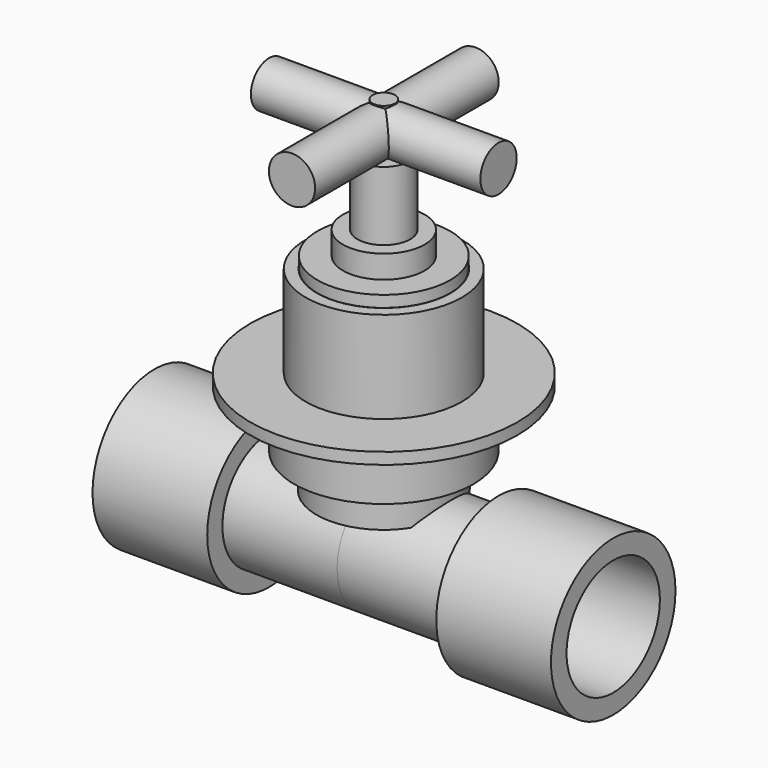
from build123d import *

# Parameters (mm, degrees)
F0_R           = 29.5829734146
F1_DEPTH       = 2.54
F2_R           = 17.3017917946
F3_DEPTH       = 20.32
F4_T           = -2.54
F5_R           = 14.7037348568
F6_DEPTH       = 2.54
F7_R           = 9.0347468528
F8_DEPTH       = 5.08
F9_R           = 5.8408968213
F10_DEPTH      = 15.24
F11_R          = 2.4907592274
F12_DEPTH      = 10.16
F13_R          = 5.0306840155
F14_DEPTH      = 25.4
F14_DEPTH_BACK = 25.4
F15_R          = 5.1207105193
F16_DEPTH      = 25.4
F16_DEPTH_BACK = 25.4
F17_R          = 19.8438709688
F18_DEPTH      = 12.7
F19_R          = 14.8736691487
F20_DEPTH      = 7.62
F21_R          = 12.914817916
F22_DEPTH      = 25.4
F22_DEPTH_BACK = 25.4
F23_R          = 17.1191917215
F23_R_2        = 12.914817916
F24_DEPTH      = 25.4
F25_R          = 17.2305196111
F25_R_2        = 12.914817916
F26_DEPTH      = 25.4


with BuildPart() as f1:
    # F0 (on Top) → F1 (new body)
    with BuildSketch(Plane.XY):
        Circle(F0_R)
    extrude(amount=F1_DEPTH)

    # F2 (on face) → F3 (join)
    with BuildSketch(Plane.XY.offset(2.54)):
        Circle(F2_R)
    extrude(amount=F3_DEPTH)

    # F4
    f4_openings = [f1.faces().sort_by_distance(p)[0] for p in [
        (0, 0, 22.86),
    ]]
    offset(amount=F4_T, openings=f4_openings, kind=Kind.INTERSECTION)

    # F17 (on face) → F18 (join)
    with BuildSketch(Plane(origin=(0, 0, 0), x_dir=(1, 0, 0), z_dir=(0, 0, -1))):
        Circle(F17_R)
    extrude(amount=F18_DEPTH)

    # F19 (on face) → F20 (join)
    with BuildSketch(Plane(origin=(0, 0, -12.7), x_dir=(1, 0, 0), z_dir=(0, 0, -1))):
        Circle(F19_R)
    extrude(amount=F20_DEPTH)

    # F21 (on Right) → F22 (join, two sides)
    with BuildSketch(Plane.YZ) as f22_sk:
        with Locations((0, -30.3781293333)):
            Circle(F21_R)
    extrude(amount=F22_DEPTH)
    extrude(f22_sk.sketch, amount=-F22_DEPTH_BACK)


with BuildPart() as f6:
    # F5 (on face) → F6 (new body)
    with BuildSketch(Plane.XY.offset(22.86)):
        Circle(F5_R)
    extrude(amount=F6_DEPTH)

    # F7 (on face) → F8 (join)
    with BuildSketch(Plane.XY.offset(25.4)):
        Circle(F7_R)
    extrude(amount=F8_DEPTH)

    # F9 (on face) → F10 (join)
    with BuildSketch(Plane.XY.offset(30.48)):
        Circle(F9_R)
    extrude(amount=F10_DEPTH)

    # F11 (on face) → F12 (join)
    with BuildSketch(Plane.XY.offset(45.72)):
        Circle(F11_R)
    extrude(amount=F12_DEPTH)

    # F13 (on Right) → F14 (join, two sides)
    with BuildSketch(Plane.YZ) as f14_sk:
        with Locations((0, 50.6302118301)):
            Circle(F13_R)
    extrude(amount=F14_DEPTH)
    extrude(f14_sk.sketch, amount=-F14_DEPTH_BACK)

    # F15 (on Front) → F16 (join, two sides)
    with BuildSketch(Plane.XZ) as f16_sk:
        with Locations((0, 50.5342297256)):
            Circle(F15_R)
    extrude(amount=F16_DEPTH)
    extrude(f16_sk.sketch, amount=-F16_DEPTH_BACK)


with BuildPart() as f24:
    # F23 (on face) → F24 (new body)
    with BuildSketch(Plane(origin=(-25.4, 0, 0), x_dir=(0, -1, 0), z_dir=(-1, 0, 0))):
        with Locations((0, -30.3781293333)):
            Circle(F23_R)
        with Locations((0, -30.3781293333)):
            Circle(F23_R_2, mode=Mode.SUBTRACT)
    extrude(amount=F24_DEPTH)


with BuildPart() as f26:
    # F25 (on face) → F26 (new body)
    with BuildSketch(Plane.YZ.offset(25.4)):
        with Locations((0, -30.3781293333)):
            Circle(F25_R)
        with Locations((0, -30.3781293333)):
            Circle(F25_R_2, mode=Mode.SUBTRACT)
    extrude(amount=F26_DEPTH)


solid = Compound([f1.part, f6.part, f24.part, f26.part])
